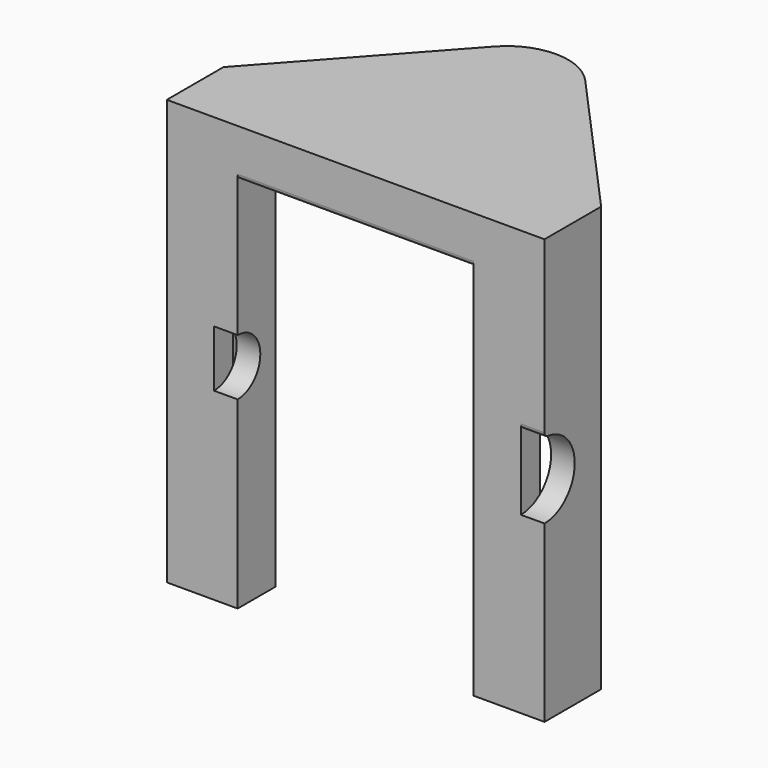
from build123d import *

# Parameters (mm, degrees)
PAD_DEPTH       = 10
PAD001_DEPTH    = 80
SKETCH003_R     = 8
POCKET_DEPTH    = 5
SKETCH004_R     = 6
POCKET001_DEPTH = 5
FILLET_R        = 1


with BuildPart() as part:
    # Sketch → Pad (new body)
    with BuildSketch(Plane.XY):
        with BuildLine():
            Line((40, 0), (-40, 0))
            Line((-40, 0), (-40, 15))
            Line((-9.661357, 48.698171), (-40, 15))
            ThreePointArc((9.661357, 48.698171), (0, 53), (-9.661357, 48.698171))
            Line((9.661357, 48.698171), (40, 15))
            Line((40, 0), (40, 15))
        make_face()
    extrude(amount=PAD_DEPTH)

    # Sketch002 (on Face7 of Pad) → Pad001 (join)
    with BuildSketch(Plane(origin=(0, 0, 0), x_dir=(1, 0, 0), z_dir=(0, 0, -1))):
        Polygon((-40, -15), (-40, 0), (-25, 0), (-25, -10), (-30, -10), (-30, -5), (-35, -5), (-35, -15), align=None)
        Polygon((40, -15), (40, 0), (25, 0), (25, -10), (30, -10), (30, -5), (35, -5), (35, -15), align=None)
    extrude(amount=PAD001_DEPTH)

    # Sketch003 (on Face9 of Pad001) → Pocket (cut)
    with BuildSketch(Plane.YZ.offset(40)):
        with Locations((0, -35)):
            Circle(SKETCH003_R)
    extrude(amount=-POCKET_DEPTH, mode=Mode.SUBTRACT)

    # Sketch004 (on Face28 of Pocket) → Pocket001 (cut)
    with BuildSketch(Plane.YZ.offset(-25)):
        with Locations((0, -35)):
            Circle(SKETCH004_R)
    extrude(amount=-POCKET001_DEPTH, mode=Mode.SUBTRACT)

    # Fillet
    fillet_edges = [part.edges().sort_by_distance(p)[0] for p in [
        (37.5, 0, -27),
        (0, 0, 0),
    ]]
    fillet(fillet_edges, radius=FILLET_R)


solid = part.part
